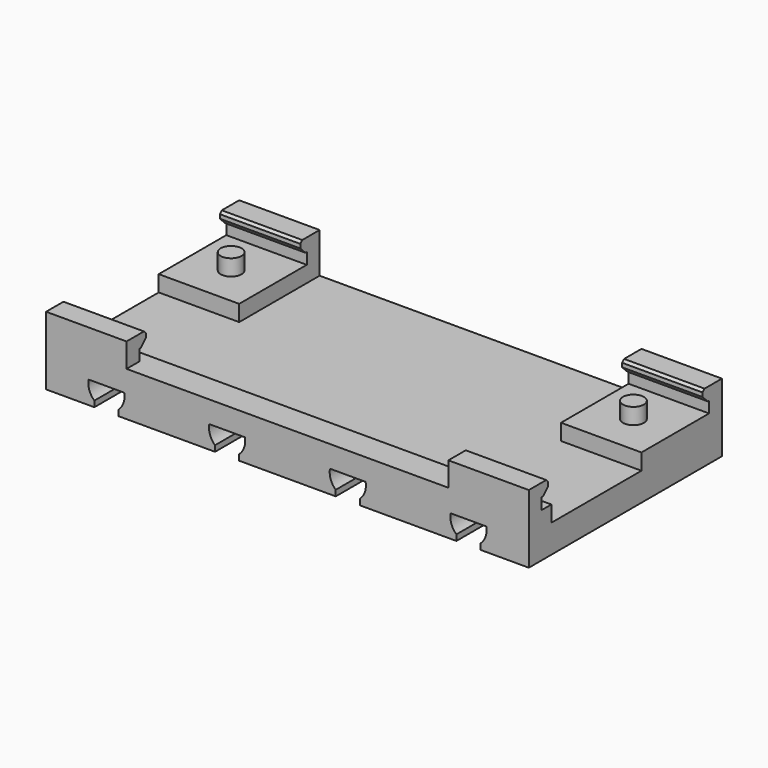
from build123d import *

# Parameters (mm, degrees)
SKETCH_W                = 60
SKETCH_H                = 30
PAD_DEPTH               = 3.5
POCKET_DEPTH            = 30.001
LINEARPATTERN_COUNT     = 4
LINEARPATTERN_PITCH     = 15
SKETCH002_W             = 10
SKETCH002_H             = 12.5
SKETCH002_W_2           = 60
SKETCH002_H_2           = 3.5
PAD001_DEPTH            = 2
SKETCH003_R             = 1.3
PAD002_DEPTH            = 2
SKETCH004_W             = 10
SKETCH004_H             = 2
PAD003_DEPTH            = 3
SKETCH005_W             = 10
SKETCH005_H             = 1.6
PAD004_DEPTH            = 1
SKETCH005_MIRRORED_2_W  = 10
SKETCH005_MIRRORED_2_H  = 1.6
PAD004_MIRRORED_2_DEPTH = 1
CHAMFER_SIZE            = 0.8
CHAMFER001_SIZE         = 0.3


with BuildPart() as part:
    # Sketch → Pad (new body)
    with BuildSketch(Plane.XY):
        Rectangle(SKETCH_W, SKETCH_H)
    extrude(amount=PAD_DEPTH)

    # Sketch001 (on Face3 of Pad) → Pocket (cut, through all)
    with BuildSketch(Plane.XZ.offset(15)):
        with BuildLine():
            Line((-24, 0.722949), (-24, 0))
            Line((-24, 0), (-21, 0))
            Line((-21, 0), (-21, 0.722949))
            ThreePointArc((-21, 0.722949), (-20.37226, 1.668412), (-20.285841, 2.8))
            Line((-24.714159, 2.8), (-20.285841, 2.8))
            ThreePointArc((-24.714159, 2.8), (-24.62774, 1.668412), (-24, 0.722949))
        make_face()
    pocket = extrude(amount=-POCKET_DEPTH, mode=Mode.SUBTRACT)

    # LinearPattern: Pocket ×4
    with Locations(*[(i * LINEARPATTERN_PITCH, 0, 0) for i in range(1, LINEARPATTERN_COUNT)]):
        add(pocket, mode=Mode.SUBTRACT)

    # Sketch002 (on Face28 of LinearPattern) → Pad001 (join)
    with BuildSketch(Plane.XY.offset(3.5)):
        with Locations((-25, 8.75)):
            Rectangle(SKETCH002_W, SKETCH002_H)
        with Locations((0, -13.25)):
            Rectangle(SKETCH002_W_2, SKETCH002_H_2)
        with Locations((25, 8.75)):
            Rectangle(SKETCH002_W, SKETCH002_H)
    extrude(amount=PAD001_DEPTH)

    # Sketch003 (on Face37 of Pad001) → Pad002 (join)
    with BuildSketch(Plane.XY.offset(5.5)):
        with Locations((-25, 7.5)):
            Circle(SKETCH003_R)
        with Locations((25, 7.5)):
            Circle(SKETCH003_R)
    extrude(amount=PAD002_DEPTH)

    # Sketch004 (on Face37 of Pad002) → Pad003 (join)
    with BuildSketch(Plane.XY.offset(5.5)):
        with Locations((-25, 14)):
            Rectangle(SKETCH004_W, SKETCH004_H)
        with Locations((25, 14)):
            Rectangle(SKETCH004_W, SKETCH004_H)
        with Locations((-25, -14)):
            Rectangle(SKETCH004_W, SKETCH004_H)
        with Locations((25, -14)):
            Rectangle(SKETCH004_W, SKETCH004_H)
    extrude(amount=PAD003_DEPTH)

    # Sketch005 (on Face65 of Pad003) → Pad004 (join)
    with BuildSketch(Plane.XZ.offset(-13)):
        with Locations((-25, 7.7)):
            Rectangle(SKETCH005_W, SKETCH005_H)
    pad004 = extrude(amount=PAD004_DEPTH)

    # Sketch005 Mirrored 2 → Pad004 Mirrored 2 (add)
    with BuildSketch(Plane(origin=(0, 13, 0), x_dir=(-1, 0, 0), z_dir=(0, 1, 0))):
        with Locations((-25, 7.7)):
            Rectangle(SKETCH005_MIRRORED_2_W, SKETCH005_MIRRORED_2_H)
    pad004_mirrored_2 = extrude(amount=-PAD004_MIRRORED_2_DEPTH)

    # Mirrored001: Pad004, Pad004 Mirrored 2 across XZ
    add(pad004.mirror(Plane.XZ))
    add(pad004_mirrored_2.mirror(Plane.XZ))

    # Chamfer
    chamfer_edges = [part.edges().sort_by_distance(p)[0] for p in [
        (-25, -12, 6.9),
        (25, -12, 6.9),
        (-25, 12, 6.9),
        (25, 12, 6.9),
    ]]
    chamfer(chamfer_edges, length=CHAMFER_SIZE)

    # Chamfer001
    chamfer001_edges = [part.edges().sort_by_distance(p)[0] for p in [
        (25, 12, 8.5),
        (-25, 12, 8.5),
        (25, -12, 8.5),
        (-25, -12, 8.5),
    ]]
    chamfer(chamfer001_edges, length=CHAMFER001_SIZE)


solid = part.part
